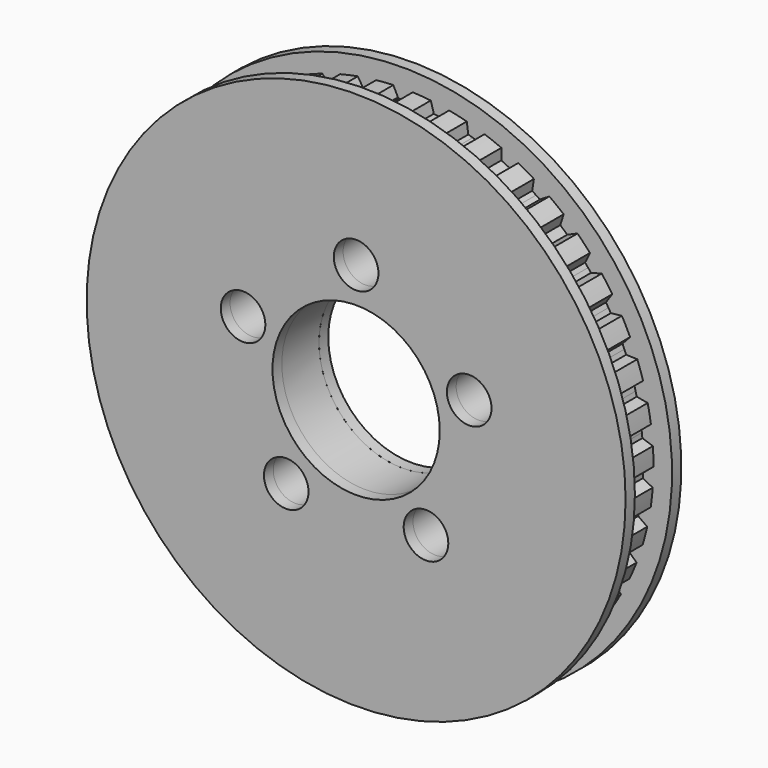
from build123d import *

# Parameters (mm, degrees)
F0_R     = 3.048
F0_R_2   = 11.43
F1_DEPTH = 6.35
F2_R     = 36.83
F2_R_2   = 3.048
F2_R_3   = 11.43
F3_DEPTH = 1.5875
F4_R     = 36.83
F4_R_2   = 3.048
F4_R_3   = 11.43
F5_DEPTH = 1.5875


with BuildPart() as f1:
    # F0 (on Front) → F1 (new body)
    with BuildSketch(Plane.XZ):
        with BuildLine():
            ThreePointArc((34.289848811, -0.1018259205), (34.2899622027, -0.0509130164), (34.29, 0))
            ThreePointArc((34.29, 0), (34.2695521571, 1.1840164488), (34.2082330154, 2.3666207902))
            Line((34.2082330154, 2.3666207902), (32.768740793, 2.8516704742))
            Line((32.768740793, 2.8516704742), (32.7014861277, 3.4830988629))
            Line((32.7014861277, 3.4830988629), (32.6342314625, 4.1145272515))
            Line((32.6342314625, 4.1145272515), (33.9392604864, 4.8919012292))
            ThreePointArc((33.9392604864, 4.8919012292), (33.7410706344, 6.1109943907), (33.4991057167, 7.3221592567))
            Line((33.4991057167, 7.3221592567), (32.0043298327, 7.5924481963))
            Line((32.0043298327, 7.5924481963), (31.8458551649, 8.2073553272))
            Line((31.8458551649, 8.2073553272), (31.6873804972, 8.8222624582))
            Line((31.6873804972, 8.8222624582), (32.8653157482, 9.7813659973))
            ThreePointArc((32.8653157482, 9.7813659973), (32.4917365446, 10.9586110578), (32.0760031392, 12.121638611))
            Line((32.0760031392, 12.121638611), (30.5578021463, 12.1714060667))
            Line((30.5578021463, 12.1714060667), (30.3114850884, 12.7566862619))
            Line((30.3114850884, 12.7566862619), (30.0651680306, 13.3419664572))
            Line((30.0651680306, 13.3419664572), (31.0909038639, 14.462357931))
            ThreePointArc((31.0909038639, 14.462357931), (30.5498975009, 15.572663956), (29.9692562435, 16.6627662834))
            Line((29.9692562435, 16.6627662834), (28.4599879601, 16.4909515481))
            Line((28.4599879601, 16.4909515481), (28.1310783326, 17.0341305765))
            Line((28.1310783326, 17.0341305765), (27.802168705, 17.5773096049))
            Line((27.802168705, 17.5773096049), (28.6538433423, 18.8351098143))
            ThreePointArc((28.6538433423, 18.8351098143), (27.9569404311, 19.8548125584), (27.2237666821, 20.8487560214))
            Line((27.2237666821, 20.8487560214), (25.7555985414, 20.4590210281))
            Line((25.7555985414, 20.4590210281), (25.3511064818, 20.9485219717))
            Line((25.3511064818, 20.9485219717), (24.9466144223, 21.4380229153))
            Line((24.9466144223, 21.4380229153), (25.6060758971, 22.8064240325))
            ThreePointArc((25.6060758971, 22.8064240325), (24.7681297135, 23.7137903021), (23.8980497984, 24.5903907215))
            Line((23.8980497984, 24.5903907215), (22.5022732553, 23.9910419948))
            Line((22.5022732553, 23.9910419948), (22.0308198098, 24.4164319908))
            Line((22.0308198098, 24.4164319908), (21.5593663643, 24.8418219868))
            Line((21.5593663643, 24.8418219868), (22.0125594003, 26.2916589178))
            ThreePointArc((22.0125594003, 26.2916589178), (21.0514293123, 27.0673497762), (20.0629874738, 27.8079239359))
            Line((20.0629874738, 27.8079239359), (18.7693510821, 27.0117355534))
            Line((18.7693510821, 27.0117355534), (18.2409844623, 27.3639481526))
            Line((18.2409844623, 27.3639481526), (17.7126178424, 27.7161607518))
            Line((17.7126178424, 27.7161607518), (17.9498834169, 29.2165327395))
            ThreePointArc((17.9498834169, 29.2165327395), (16.8860542437, 29.8440156829), (15.8003174037, 30.4327795304))
            Line((15.8003174037, 30.4327795304), (14.6363927771, 29.4567208652))
            Line((14.6363927771, 29.4567208652), (14.0623742001, 29.7282492675))
            Line((14.0623742001, 29.7282492675), (13.4883556231, 29.9997776698))
            Line((13.4883556231, 29.9997776698), (13.5046368322, 31.5187068902))
            ThreePointArc((13.5046368322, 31.5187068902), (12.3607822456, 31.9846082089), (11.2008909998, 32.409013265))
            Line((11.2008909998, 32.409013265), (10.1914851709, 31.2738873129))
            Line((10.1914851709, 31.2738873129), (9.5840488462, 31.4589443619))
            Line((9.5840488462, 31.4589443619), (8.9766125214, 31.6440014109))
            Line((8.9766125214, 31.6440014109), (8.7715623595, 33.1491145247))
            ThreePointArc((8.7715623595, 33.1491145247), (7.5720616342, 33.443504341), (6.3627370506, 33.6945051488))
            Line((6.3627370506, 33.6945051488), (5.5293637523, 32.4245051488))
            Line((5.5293637523, 32.4245051488), (4.9014561304, 32.5191466747))
            Line((4.9014561304, 32.5191466747), (4.2735485086, 32.6137882006))
            Line((4.2735485086, 32.6137882006), (3.8515372638, 34.073006335))
            ThreePointArc((3.8515372638, 34.073006335), (2.6219556752, 34.1896102411), (1.3889724079, 34.2618571541))
            Line((1.3889724079, 34.2618571541), (0.7493935451, 32.8840509513))
            Line((0.7493935451, 32.8840509513), (0.114397387, 32.8862598343))
            Line((0.114397387, 32.8862598343), (-0.5205987711, 32.8884687173))
            Line((-0.5205987711, 32.8884687173), (-0.5698242548, 32.9964734106))
            Line((-0.5698242548, 32.9964734106), (-0.635, 32.9964734106))
            Line((-0.635, 32.9964734106), (-1.27, 34.2664734106))
            ThreePointArc((-1.27, 34.2664734106), (-2.4436334133, 34.2028179503), (-3.6143957702, 34.0989771579))
            Line((-3.6143957702, 34.0989771579), (-4.0465486844, 32.6427302994))
            Line((-4.0465486844, 32.6427302994), (-4.6750995382, 32.552459461))
            Line((-4.6750995382, 32.552459461), (-5.3036503919, 32.4621886226))
            Line((-5.3036503919, 32.4621886226), (-6.1281680434, 33.737955724))
            ThreePointArc((-6.1281680434, 33.737955724), (-7.3392095906, 33.4953743461), (-8.5407293776, 33.2093366645))
            Line((-8.5407293776, 33.2093366645), (-8.7562457542, 31.7056865238))
            Line((-8.7562457542, 31.7056865238), (-9.3649548334, 31.5248599302))
            Line((-9.3649548334, 31.5248599302), (-9.9736639125, 31.3440333367))
            Line((-9.9736639125, 31.3440333367), (-10.9751481626, 32.4861543247))
            ThreePointArc((-10.9751481626, 32.4861543247), (-12.1379639539, 32.0698289839), (-13.2850321663, 31.6118968165))
            Line((-13.2850321663, 31.6118968165), (-13.2793186478, 30.0928910858))
            Line((-13.2793186478, 30.0928910858), (-13.8552123752, 29.825362742))
            Line((-13.8552123752, 29.825362742), (-14.4311061026, 29.5578343981))
            Line((-14.4311061026, 29.5578343981), (-15.5882120532, 30.5419669469))
            ThreePointArc((-15.5882120532, 30.5419669469), (-16.6780186888, 29.9607708949), (-17.7461875592, 29.3407042709))
            Line((-17.7461875592, 29.3407042709), (-17.5193659194, 27.8387179201))
            Line((-17.5193659194, 27.8387179201), (-18.0501701201, 27.4901897281))
            Line((-18.0501701201, 27.4901897281), (-18.5809743207, 27.1416615362))
            Line((-18.5809743207, 27.1416615362), (-19.8690402673, 27.946830569))
            ThreePointArc((-19.8690402673, 27.946830569), (-20.8626104109, 27.2131509907), (-21.8291137743, 26.4441655536))
            Line((-21.8291137743, 26.4441655536), (-21.3860183227, 24.9912108141))
            Line((-21.3860183227, 24.9912108141), (-21.8604198266, 24.5691110474))
            Line((-21.8604198266, 24.5691110474), (-22.3348213305, 24.1470112806))
            Line((-22.3348213305, 24.1470112806), (-23.7263943839, 24.7560560175))
            ThreePointArc((-23.7263943839, 24.7560560175), (-24.6025518128, 23.8855300192), (-25.446790328, 22.9840153586))
            Line((-25.446790328, 22.9840153586), (-24.7968648747, 21.6110594381))
            Line((-24.7968648747, 21.6110594381), (-25.2047526375, 21.1243844203))
            Line((-25.2047526375, 21.1243844203), (-25.6126404002, 20.6377094025))
            Line((-25.6126404002, 20.6377094025), (-27.0780615967, 21.0376491122))
            ThreePointArc((-27.0780615967, 21.0376491122), (-27.8181325365, 20.0488304443), (-28.5221127252, 19.0340007799))
            Line((-28.5221127252, 19.0340007799), (-27.679209303, 17.7703058503))
            Line((-27.679209303, 17.7703058503), (-28.0118899051, 17.2294282144))
            Line((-28.0118899051, 17.2294282144), (-28.3445705072, 16.6885505785))
            Line((-28.3445705072, 16.6885505785), (-29.8526069381, 16.8708612405))
            ThreePointArc((-29.8526069381, 16.8708612405), (-30.4408180616, 15.7848248562), (-30.9895358084, 14.6783095204))
            Line((-30.9895358084, 14.6783095204), (-29.9716194403, 13.5508090451))
            Line((-29.9716194403, 13.5508090451), (-30.2220023723, 12.967256659))
            Line((-30.2220023723, 12.967256659), (-30.4723853043, 12.3837042728))
            Line((-30.4723853043, 12.3837042728), (-31.9908957913, 12.3445002519))
            ThreePointArc((-31.9908957913, 12.3445002519), (-32.4147103996, 11.1843931311), (-32.7964707383, 10.0097755773))
            Line((-32.7964707383, 10.0097755773), (-31.6252365445, 9.0425002714))
            Line((-31.6252365445, 9.0425002714), (-31.7879853289, 8.428710541))
            Line((-31.7879853289, 8.428710541), (-31.9507341133, 7.8149208106))
            Line((-31.9507341133, 7.8149208106), (-33.4473542417, 7.5550376723))
            ThreePointArc((-33.4473542417, 7.5550376723), (-33.6977394622, 6.3455854843), (-33.9044058341, 5.1279006463))
            Line((-33.9044058341, 5.1279006463), (-32.6048166378, 4.3414663036))
            Line((-32.6048166378, 4.3414663036), (-32.6764625668, 3.7105210913))
            Line((-32.6764625668, 3.7105210913), (-32.7481084959, 3.0795758791))
            Line((-32.7481084959, 3.0795758791), (-34.1909404061, 2.6045525815))
            ThreePointArc((-34.1909404061, 2.6045525815), (-34.2625597125, 1.3715326997), (-34.2897273826, 0.1367334157))
            Line((-34.2897273826, 0.1367334157), (-32.8894816714, -0.4520984811))
            Line((-32.8894816714, -0.4520984811), (-32.8684977365, -1.0867516734))
            Line((-32.8684977365, -1.0867516734), (-32.8475138015, -1.7214048657))
            Line((-32.8475138015, -1.7214048657), (-34.2058060363, -2.4014440258))
            ThreePointArc((-34.2058060363, -2.4014440258), (-34.0971329875, -3.6317519232), (-33.9442229241, -4.8573480502))
            Line((-33.9442229241, -4.8573480502), (-32.4731645043, -5.2360275715))
            Line((-32.4731645043, -5.2360275715), (-32.3599979415, -5.8608622129))
            Line((-32.3599979415, -5.8608622129), (-32.2468313787, -6.4856968543))
            Line((-32.2468313787, -6.4856968543), (-33.4916342972, -7.3562580229))
            ThreePointArc((-33.4916342972, -7.3562580229), (-33.2049850706, -8.5576320591), (-32.8752562862, -9.7479035755))
            Line((-32.8752562862, -9.7479035755), (-31.364738214, -9.9083598248))
            Line((-31.364738214, -9.9083598248), (-31.1618009722, -10.5100586497))
            Line((-31.1618009722, -10.5100586497), (-30.9588637304, -11.1117574746))
            Line((-30.9588637304, -11.1117574746), (-31.2640306264, -11.399728326))
            Line((-31.2640306264, -11.399728326), (-32.0636465197, -12.1542861519))
            ThreePointArc((-32.0636465197, -12.1542861519), (-31.7581693654, -12.9314646719), (-31.4338577013, -13.7009740534))
            ThreePointArc((-31.4338577013, -13.7009740534), (-31.2718627491, -14.0667942403), (-31.105610637, -14.4306994599))
            Line((-31.105610637, -14.4306994599), (-29.5878269826, -14.3695125909))
            Line((-29.5878269826, -14.3695125909), (-29.2994443168, -14.9352514335))
            Line((-29.2994443168, -14.9352514335), (-29.0110616509, -15.5009902761))
            Line((-29.0110616509, -15.5009902761), (-29.9522777838, -16.6932667732))
            ThreePointArc((-29.9522777838, -16.6932667732), (-29.3316675347, -17.7611198869), (-28.673002901, -18.8059300392))
            Line((-28.673002901, -18.8059300392), (-27.180302588, -18.5244041437))
            Line((-27.180302588, -18.5244041437), (-26.8126208739, -19.0421252627))
            Line((-26.8126208739, -19.0421252627), (-26.4449391599, -19.5598463818))
            Line((-26.4449391599, -19.5598463818), (-27.2025282487, -20.8764593952))
            ThreePointArc((-27.2025282487, -20.8764593952), (-26.4330509542, -21.8425712143), (-25.6292798889, -22.7803448696))
            Line((-25.6292798889, -22.7803448696), (-24.1934772328, -22.2844801833))
            Line((-24.1934772328, -22.2844801833), (-23.7543329679, -22.743149252))
            Line((-23.7543329679, -22.743149252), (-23.3151887031, -23.2018183208))
            Line((-23.3151887031, -23.2018183208), (-23.8730040516, -24.6147065299))
            ThreePointArc((-23.8730040516, -24.6147065299), (-22.9710597844, -25.4584860584), (-22.0393132722, -26.2692361992))
            Line((-22.0393132722, -26.2692361992), (-20.6910099139, -25.569601217))
            Line((-20.6910099139, -25.569601217), (-20.1897626958, -25.9594425005))
            Line((-20.1897626958, -25.9594425005), (-19.6885154777, -26.3492837841))
            Line((-19.6885154777, -26.3492837841), (-20.0346682203, -27.8283339297))
            ThreePointArc((-20.0346682203, -27.8283339297), (-19.0194803565, -28.5317974718), (-17.9796169566, -29.1982443666))
            Line((-17.9796169566, -29.1982443666), (-16.7475496414, -28.3097505934))
            Line((-16.7475496414, -28.3097505934), (-16.1948826843, -28.6224553016))
            Line((-16.1948826843, -28.6224553016), (-15.6422157272, -28.9351600099))
            Line((-15.6422157272, -28.9351600099), (-15.7693282191, -30.448848706))
            ThreePointArc((-15.7693282191, -30.448848706), (-14.6625337254, -30.9970031576), (-13.536716321, -31.5049426479))
            Line((-13.536716321, -31.5049426479), (-12.4471444245, -30.4465267859))
            Line((-12.4471444245, -30.4465267859), (-11.8548368651, -30.6754301609))
            Line((-11.8548368651, -30.6754301609), (-11.2625293057, -30.9043335358))
            Line((-11.2625293057, -30.9043335358), (-11.1678923647, -32.4203991359))
            ThreePointArc((-11.1678923647, -32.4203991359), (-9.9930806444, -32.8015615365), (-8.8053040787, -33.1401677739))
            Line((-8.8053040787, -33.1401677739), (-7.8814499343, -31.9343881198))
            Line((-7.8814499343, -31.9343881198), (-7.2621257799, -32.0746114834))
            Line((-7.2621257799, -32.0746114834), (-6.6428016254, -32.214834847))
            Line((-6.6428016254, -32.214834847), (-6.3284322738, -33.7009650449))
            ThreePointArc((-6.3284322738, -33.7009650449), (-5.1106423989, -33.9070115798), (-3.8862220674, -34.0690677601))
            Line((-3.8862220674, -34.0690677601), (-3.1477760222, -32.7416234137))
            Line((-3.1477760222, -32.7416234137), (-2.5146350918, -32.7901781484))
            Line((-2.5146350918, -32.7901781484), (-1.8814941614, -32.8387328832))
            Line((-1.8814941614, -32.8387328832), (-1.3540926361, -34.2632533939))
            ThreePointArc((-1.3540926361, -34.2632533939), (-0.1192796836, -34.2897925388), (1.1156880203, -34.2718447161))
            Line((1.1156880203, -34.2718447161), (1.6529872708, -32.851027849))
            Line((1.6529872708, -32.851027849), (2.2864506774, -32.806879095))
            Line((2.2864506774, -32.806879095), (2.919914084, -32.7627303409))
            Line((2.919914084, -32.7627303409), (3.6491071353, -34.0952799829))
            ThreePointArc((3.6491071353, -34.0952799829), (4.8746252712, -33.9417461022), (6.0938191548, -33.7441768029))
            Line((6.0938191548, -33.7441768029), (6.41852001, -32.26026966))
            Line((6.41852001, -32.26026966), (7.0388047201, -32.1243583712))
            Line((7.0388047201, -32.1243583712), (7.6590894302, -31.9884470825))
            Line((7.6590894302, -31.9884470825), (8.5745325235, -33.2006248737))
            ThreePointArc((8.5745325235, -33.2006248737), (9.7646360513, -32.8702902753), (10.9420711138, -32.4973103462))
            Line((10.9420711138, -32.4973103462), (11.0472531387, -30.9819398318))
            Line((11.0472531387, -30.9819398318), (11.6411388606, -30.7571627216))
            Line((11.6411388606, -30.7571627216), (12.2350245825, -30.5323856113))
            Line((12.2350245825, -30.5323856113), (13.3172066376, -31.5983560865))
            ThreePointArc((13.3172066376, -31.5983560865), (14.4465305669, -31.098261279), (15.5571118241, -30.5578201397))
            Line((15.5571118241, -30.5578201397), (15.4405332464, -29.0432837454))
            Line((15.4405332464, -29.0432837454), (15.9953623371, -28.7344315475))
            Line((15.9953623371, -28.7344315475), (16.5501914277, -28.4255793496))
            Line((16.5501914277, -28.4255793496), (17.7760476129, -29.3226231989))
            ThreePointArc((17.7760476129, -29.3226231989), (18.8205223648, -28.6634268348), (19.8405797054, -27.9670430499))
            Line((19.8405797054, -27.9670430499), (19.5047251951, -26.4856204896))
            Line((19.5047251951, -26.4856204896), (20.0086724356, -26.0992758523))
            Line((20.0086724356, -26.0992758523), (20.5126196762, -25.7129312151))
            Line((20.5126196762, -25.7129312151), (21.8560229952, -26.4219295063))
            ThreePointArc((21.8560229952, -26.4219295063), (22.7933874038, -25.6176812116), (23.7011800765, -24.7801969924))
            Line((23.7011800765, -24.7801969924), (23.1532077893, -23.3634622159))
            Line((23.1532077893, -23.3634622159), (23.5955324193, -22.9078594046))
            Line((23.5955324193, -22.9078594046), (24.0378570493, -22.4522565932))
            Line((24.0378570493, -22.4522565932), (25.4701751927, -22.9580982586))
            ThreePointArc((25.4701751927, -22.9580982586), (25.7363038386, -22.6593637318), (25.9989289015, -22.3575444979))
            ThreePointArc((25.9989289015, -22.3575444979), (26.5356485422, -21.7178142649), (27.056630943, -21.0652040582))
            Line((27.056630943, -21.0652040582), (26.5149486097, -20.1084787376))
            Line((26.5149486097, -20.1084787376), (26.308219957, -19.7433523077))
            Line((26.308219957, -19.7433523077), (26.6794945949, -19.2282017051))
            Line((26.6794945949, -19.2282017051), (27.0507692327, -18.7130511026))
            Line((27.0507692327, -18.7130511026), (28.5414748261, -19.0049550053))
            ThreePointArc((28.5414748261, -19.0049550053), (29.2073923367, -17.964752514), (29.8354166954, -16.9012428719))
            Line((29.8354166954, -16.9012428719), (28.9025180913, -15.7024471224))
            Line((28.9025180913, -15.7024471224), (29.1948296627, -15.1387282694))
            Line((29.1948296627, -15.1387282694), (29.4871412342, -14.5750094164))
            Line((29.4871412342, -14.5750094164), (31.0044624758, -14.6467541315))
            ThreePointArc((31.0044624758, -14.6467541315), (31.5118288512, -13.5206783281), (31.9783123396, -12.3770610368))
            Line((31.9783123396, -12.3770610368), (30.8808092317, -11.3268715385))
            Line((30.8808092317, -11.3268715385), (31.087927623, -10.7265991237))
            Line((31.087927623, -10.7265991237), (31.2950460143, -10.1263267089))
            Line((31.2950460143, -10.1263267089), (32.8066438362, -9.9763831224))
            ThreePointArc((32.8066438362, -9.9763831224), (33.144645443, -8.7884343576), (33.4396457755, -7.5890836342))
            Line((33.4396457755, -7.5890836342), (32.2009295369, -6.7098833529))
            Line((32.2009295369, -6.7098833529), (32.3184403792, -6.0858511407))
            Line((32.3184403792, -6.0858511407), (32.4359512215, -5.4618189284))
            Line((32.4359512215, -5.4618189284), (33.9096085405, -5.0933828275))
            ThreePointArc((33.9096085405, -5.0933828275), (34.0710414613, -3.8688801668), (34.188271218, -2.6393580897))
            Line((34.188271218, -2.6393580897), (32.8347429348, -1.9498856531))
            Line((32.8347429348, -1.9498856531), (32.8601416885, -1.3153938065))
            Line((32.8601416885, -1.3153938065), (32.8855404422, -0.68090196))
            Line((32.8855404422, -0.68090196), (34.289848811, -0.1018259205))
        make_face()
        with Locations((-9.5515103498, -13.1465261586)):
            Circle(F0_R, mode=Mode.SUBTRACT)
        with Locations((9.5515103498, -13.1465261586)):
            Circle(F0_R, mode=Mode.SUBTRACT)
        with Locations((-15.4546683898, 5.0215261586)):
            Circle(F0_R, mode=Mode.SUBTRACT)
        Circle(F0_R_2, mode=Mode.SUBTRACT)
        with Locations((15.4546683898, 5.0215261586)):
            Circle(F0_R, mode=Mode.SUBTRACT)
        with Locations((0, 16.25)):
            Circle(F0_R, mode=Mode.SUBTRACT)
    extrude(amount=F1_DEPTH)


with BuildPart() as f3:
    # F2 (on face) → F3 (new body)
    with BuildSketch(Plane.XZ.offset(6.35)):
        Circle(F2_R)
        with Locations((-9.5515103498, -13.1465261586)):
            Circle(F2_R_2, mode=Mode.SUBTRACT)
        Circle(F2_R_3, mode=Mode.SUBTRACT)
        with Locations((9.5515103498, -13.1465261586)):
            Circle(F2_R_2, mode=Mode.SUBTRACT)
        with Locations((-15.4546683898, 5.0215261586)):
            Circle(F2_R_2, mode=Mode.SUBTRACT)
        with Locations((0, 16.25)):
            Circle(F2_R_2, mode=Mode.SUBTRACT)
        with Locations((15.4546683898, 5.0215261586)):
            Circle(F2_R_2, mode=Mode.SUBTRACT)
    extrude(amount=F3_DEPTH)


with BuildPart() as f5:
    # F4 (on face) → F5 (new body)
    with BuildSketch(Plane(origin=(0, 0, 0), x_dir=(-1, 0, 0), z_dir=(0, 1, 0))):
        Circle(F4_R)
        with BuildLine():
            ThreePointArc((-34.289848811, -0.1018259205), (-34.2712723832, 1.1331324878), (-34.2082330154, 2.3666207902))
            Line((-34.2082330154, 2.3666207902), (-32.768740793, 2.8516704742))
            Line((-32.768740793, 2.8516704742), (-32.6342314625, 4.1145272515))
            Line((-32.6342314625, 4.1145272515), (-33.9392604864, 4.8919012292))
            ThreePointArc((-33.9392604864, 4.8919012292), (-33.7410706344, 6.1109943907), (-33.4991057167, 7.3221592567))
            Line((-33.4991057167, 7.3221592567), (-32.0043298327, 7.5924481963))
            Line((-32.0043298327, 7.5924481963), (-31.6873804972, 8.8222624582))
            Line((-31.6873804972, 8.8222624582), (-32.8653157482, 9.7813659973))
            ThreePointArc((-32.8653157482, 9.7813659973), (-32.4917365446, 10.9586110578), (-32.0760031392, 12.121638611))
            Line((-32.0760031392, 12.121638611), (-30.5578021463, 12.1714060667))
            Line((-30.5578021463, 12.1714060667), (-30.0651680306, 13.3419664572))
            Line((-30.0651680306, 13.3419664572), (-31.0909038639, 14.462357931))
            ThreePointArc((-31.0909038639, 14.462357931), (-30.5498975009, 15.572663956), (-29.9692562435, 16.6627662834))
            Line((-29.9692562435, 16.6627662834), (-28.4599879601, 16.4909515481))
            Line((-28.4599879601, 16.4909515481), (-27.802168705, 17.5773096049))
            Line((-27.802168705, 17.5773096049), (-28.6538433423, 18.8351098143))
            ThreePointArc((-28.6538433423, 18.8351098143), (-27.9569404311, 19.8548125584), (-27.2237666821, 20.8487560214))
            Line((-27.2237666821, 20.8487560214), (-25.7555985414, 20.4590210281))
            Line((-25.7555985414, 20.4590210281), (-24.9466144223, 21.4380229153))
            Line((-24.9466144223, 21.4380229153), (-25.6060758971, 22.8064240325))
            ThreePointArc((-25.6060758971, 22.8064240325), (-24.7681297135, 23.7137903021), (-23.8980497984, 24.5903907215))
            Line((-23.8980497984, 24.5903907215), (-22.5022732553, 23.9910419948))
            Line((-22.5022732553, 23.9910419948), (-21.5593663643, 24.8418219868))
            Line((-21.5593663643, 24.8418219868), (-22.0125594003, 26.2916589178))
            ThreePointArc((-22.0125594003, 26.2916589178), (-21.0514293123, 27.0673497762), (-20.0629874738, 27.8079239359))
            Line((-20.0629874738, 27.8079239359), (-18.7693510821, 27.0117355534))
            Line((-18.7693510821, 27.0117355534), (-17.7126178424, 27.7161607518))
            Line((-17.7126178424, 27.7161607518), (-17.9498834169, 29.2165327395))
            ThreePointArc((-17.9498834169, 29.2165327395), (-16.8860542437, 29.8440156829), (-15.8003174037, 30.4327795304))
            Line((-15.8003174037, 30.4327795304), (-14.6363927771, 29.4567208652))
            Line((-14.6363927771, 29.4567208652), (-13.4883556231, 29.9997776698))
            Line((-13.4883556231, 29.9997776698), (-13.5046368322, 31.5187068902))
            ThreePointArc((-13.5046368322, 31.5187068902), (-12.3607822456, 31.9846082089), (-11.2008909998, 32.409013265))
            Line((-11.2008909998, 32.409013265), (-10.1914851709, 31.2738873129))
            Line((-10.1914851709, 31.2738873129), (-8.9766125214, 31.6440014109))
            Line((-8.9766125214, 31.6440014109), (-8.7715623595, 33.1491145247))
            ThreePointArc((-8.7715623595, 33.1491145247), (-7.5720616342, 33.443504341), (-6.3627370506, 33.6945051488))
            Line((-6.3627370506, 33.6945051488), (-5.5293637523, 32.4245051488))
            Line((-5.5293637523, 32.4245051488), (-4.2735485086, 32.6137882006))
            Line((-4.2735485086, 32.6137882006), (-3.8515372638, 34.073006335))
            ThreePointArc((-3.8515372638, 34.073006335), (-2.6219556752, 34.1896102411), (-1.3889724079, 34.2618571541))
            Line((-1.3889724079, 34.2618571541), (-0.7493935451, 32.8840509513))
            Line((-0.7493935451, 32.8840509513), (0.5205987711, 32.8884687173))
            Line((0.5205987711, 32.8884687173), (0.5698242548, 32.9964734106))
            Line((0.5698242548, 32.9964734106), (0.635, 32.9964734106))
            Line((0.635, 32.9964734106), (1.27, 34.2664734106))
            ThreePointArc((1.27, 34.2664734106), (2.4436334133, 34.2028179503), (3.6143957702, 34.0989771579))
            Line((3.6143957702, 34.0989771579), (4.0465486844, 32.6427302994))
            Line((4.0465486844, 32.6427302994), (5.3036503919, 32.4621886226))
            Line((5.3036503919, 32.4621886226), (6.1281680434, 33.737955724))
            ThreePointArc((6.1281680434, 33.737955724), (7.3392095906, 33.4953743461), (8.5407293776, 33.2093366645))
            Line((8.5407293776, 33.2093366645), (8.7562457542, 31.7056865238))
            Line((8.7562457542, 31.7056865238), (9.9736639125, 31.3440333367))
            Line((9.9736639125, 31.3440333367), (10.9751481626, 32.4861543247))
            ThreePointArc((10.9751481626, 32.4861543247), (12.1379639539, 32.0698289839), (13.2850321663, 31.6118968165))
            Line((13.2850321663, 31.6118968165), (13.2793186478, 30.0928910858))
            Line((13.2793186478, 30.0928910858), (14.4311061026, 29.5578343981))
            Line((14.4311061026, 29.5578343981), (15.5882120532, 30.5419669469))
            ThreePointArc((15.5882120532, 30.5419669469), (16.6780186888, 29.9607708949), (17.7461875592, 29.3407042709))
            Line((17.7461875592, 29.3407042709), (17.5193659194, 27.8387179201))
            Line((17.5193659194, 27.8387179201), (18.5809743207, 27.1416615362))
            Line((18.5809743207, 27.1416615362), (19.8690402673, 27.946830569))
            ThreePointArc((19.8690402673, 27.946830569), (20.8626104109, 27.2131509907), (21.8291137743, 26.4441655536))
            Line((21.8291137743, 26.4441655536), (21.3860183227, 24.9912108141))
            Line((21.3860183227, 24.9912108141), (22.3348213305, 24.1470112806))
            Line((22.3348213305, 24.1470112806), (23.7263943839, 24.7560560175))
            ThreePointArc((23.7263943839, 24.7560560175), (24.6025518128, 23.8855300192), (25.446790328, 22.9840153586))
            Line((25.446790328, 22.9840153586), (24.7968648747, 21.6110594381))
            Line((24.7968648747, 21.6110594381), (25.6126404002, 20.6377094025))
            Line((25.6126404002, 20.6377094025), (27.0780615967, 21.0376491122))
            ThreePointArc((27.0780615967, 21.0376491122), (27.8181325365, 20.0488304443), (28.5221127252, 19.0340007799))
            Line((28.5221127252, 19.0340007799), (27.679209303, 17.7703058503))
            Line((27.679209303, 17.7703058503), (28.3445705072, 16.6885505785))
            Line((28.3445705072, 16.6885505785), (29.8526069381, 16.8708612405))
            ThreePointArc((29.8526069381, 16.8708612405), (30.4408180616, 15.7848248562), (30.9895358084, 14.6783095204))
            Line((30.9895358084, 14.6783095204), (29.9716194403, 13.5508090451))
            Line((29.9716194403, 13.5508090451), (30.4723853043, 12.3837042728))
            Line((30.4723853043, 12.3837042728), (31.9908957913, 12.3445002519))
            ThreePointArc((31.9908957913, 12.3445002519), (32.4147103996, 11.1843931311), (32.7964707383, 10.0097755773))
            Line((32.7964707383, 10.0097755773), (31.6252365445, 9.0425002714))
            Line((31.6252365445, 9.0425002714), (31.9507341133, 7.8149208106))
            Line((31.9507341133, 7.8149208106), (33.4473542417, 7.5550376723))
            ThreePointArc((33.4473542417, 7.5550376723), (33.6977394622, 6.3455854843), (33.9044058341, 5.1279006463))
            Line((33.9044058341, 5.1279006463), (32.6048166378, 4.3414663036))
            Line((32.6048166378, 4.3414663036), (32.7481084959, 3.0795758791))
            Line((32.7481084959, 3.0795758791), (34.1909404061, 2.6045525815))
            ThreePointArc((34.1909404061, 2.6045525815), (34.2625597125, 1.3715326997), (34.2897273826, 0.1367334157))
            Line((34.2897273826, 0.1367334157), (32.8894816714, -0.4520984811))
            Line((32.8894816714, -0.4520984811), (32.8475138015, -1.7214048657))
            Line((32.8475138015, -1.7214048657), (34.2058060363, -2.4014440258))
            ThreePointArc((34.2058060363, -2.4014440258), (34.0971329875, -3.6317519232), (33.9442229241, -4.8573480502))
            Line((33.9442229241, -4.8573480502), (32.4731645043, -5.2360275715))
            Line((32.4731645043, -5.2360275715), (32.2468313787, -6.4856968543))
            Line((32.2468313787, -6.4856968543), (33.4916342972, -7.3562580229))
            ThreePointArc((33.4916342972, -7.3562580229), (33.2049850706, -8.5576320591), (32.8752562862, -9.7479035755))
            Line((32.8752562862, -9.7479035755), (31.364738214, -9.9083598248))
            Line((31.364738214, -9.9083598248), (30.9588637304, -11.1117574746))
            Line((30.9588637304, -11.1117574746), (32.0636465197, -12.1542861519))
            ThreePointArc((32.0636465197, -12.1542861519), (31.6051305458, -13.301121125), (31.105610637, -14.4306994599))
            Line((31.105610637, -14.4306994599), (29.5878269826, -14.3695125909))
            Line((29.5878269826, -14.3695125909), (29.0110616509, -15.5009902761))
            Line((29.0110616509, -15.5009902761), (29.9522777838, -16.6932667732))
            ThreePointArc((29.9522777838, -16.6932667732), (29.3316675347, -17.7611198869), (28.673002901, -18.8059300392))
            Line((28.673002901, -18.8059300392), (27.180302588, -18.5244041437))
            Line((27.180302588, -18.5244041437), (26.4449391599, -19.5598463818))
            Line((26.4449391599, -19.5598463818), (27.2025282487, -20.8764593952))
            ThreePointArc((27.2025282487, -20.8764593952), (26.4330509542, -21.8425712143), (25.6292798889, -22.7803448696))
            Line((25.6292798889, -22.7803448696), (24.1934772328, -22.2844801833))
            Line((24.1934772328, -22.2844801833), (23.3151887031, -23.2018183208))
            Line((23.3151887031, -23.2018183208), (23.8730040516, -24.6147065299))
            ThreePointArc((23.8730040516, -24.6147065299), (22.9710597844, -25.4584860584), (22.0393132722, -26.2692361992))
            Line((22.0393132722, -26.2692361992), (20.6910099139, -25.569601217))
            Line((20.6910099139, -25.569601217), (19.6885154777, -26.3492837841))
            Line((19.6885154777, -26.3492837841), (20.0346682203, -27.8283339297))
            ThreePointArc((20.0346682203, -27.8283339297), (19.0194803565, -28.5317974718), (17.9796169566, -29.1982443666))
            Line((17.9796169566, -29.1982443666), (16.7475496414, -28.3097505934))
            Line((16.7475496414, -28.3097505934), (15.6422157272, -28.9351600099))
            Line((15.6422157272, -28.9351600099), (15.7693282191, -30.448848706))
            ThreePointArc((15.7693282191, -30.448848706), (14.6625337254, -30.9970031576), (13.536716321, -31.5049426479))
            Line((13.536716321, -31.5049426479), (12.4471444245, -30.4465267859))
            Line((12.4471444245, -30.4465267859), (11.2625293057, -30.9043335358))
            Line((11.2625293057, -30.9043335358), (11.1678923647, -32.4203991359))
            ThreePointArc((11.1678923647, -32.4203991359), (9.9930806444, -32.8015615365), (8.8053040787, -33.1401677739))
            Line((8.8053040787, -33.1401677739), (7.8814499343, -31.9343881198))
            Line((7.8814499343, -31.9343881198), (6.6428016254, -32.214834847))
            Line((6.6428016254, -32.214834847), (6.3284322738, -33.7009650449))
            ThreePointArc((6.3284322738, -33.7009650449), (5.1106423989, -33.9070115798), (3.8862220674, -34.0690677601))
            Line((3.8862220674, -34.0690677601), (3.1477760222, -32.7416234137))
            Line((3.1477760222, -32.7416234137), (1.8814941614, -32.8387328832))
            Line((1.8814941614, -32.8387328832), (1.3540926361, -34.2632533939))
            ThreePointArc((1.3540926361, -34.2632533939), (0.1192796836, -34.2897925388), (-1.1156880203, -34.2718447161))
            Line((-1.1156880203, -34.2718447161), (-1.6529872708, -32.851027849))
            Line((-1.6529872708, -32.851027849), (-2.919914084, -32.7627303409))
            Line((-2.919914084, -32.7627303409), (-3.6491071353, -34.0952799829))
            ThreePointArc((-3.6491071353, -34.0952799829), (-4.8746252712, -33.9417461022), (-6.0938191548, -33.7441768029))
            Line((-6.0938191548, -33.7441768029), (-6.41852001, -32.26026966))
            Line((-6.41852001, -32.26026966), (-7.6590894302, -31.9884470825))
            Line((-7.6590894302, -31.9884470825), (-8.5745325235, -33.2006248737))
            ThreePointArc((-8.5745325235, -33.2006248737), (-9.7646360513, -32.8702902753), (-10.9420711138, -32.4973103462))
            Line((-10.9420711138, -32.4973103462), (-11.0472531387, -30.9819398318))
            Line((-11.0472531387, -30.9819398318), (-12.2350245825, -30.5323856113))
            Line((-12.2350245825, -30.5323856113), (-13.3172066376, -31.5983560865))
            ThreePointArc((-13.3172066376, -31.5983560865), (-14.4465305669, -31.098261279), (-15.5571118241, -30.5578201397))
            Line((-15.5571118241, -30.5578201397), (-15.4405332464, -29.0432837454))
            Line((-15.4405332464, -29.0432837454), (-16.5501914277, -28.4255793496))
            Line((-16.5501914277, -28.4255793496), (-17.7760476129, -29.3226231989))
            ThreePointArc((-17.7760476129, -29.3226231989), (-18.8205223648, -28.6634268348), (-19.8405797054, -27.9670430499))
            Line((-19.8405797054, -27.9670430499), (-19.5047251951, -26.4856204896))
            Line((-19.5047251951, -26.4856204896), (-20.5126196762, -25.7129312151))
            Line((-20.5126196762, -25.7129312151), (-21.8560229952, -26.4219295063))
            ThreePointArc((-21.8560229952, -26.4219295063), (-22.7933874038, -25.6176812116), (-23.7011800765, -24.7801969924))
            Line((-23.7011800765, -24.7801969924), (-23.1532077893, -23.3634622159))
            Line((-23.1532077893, -23.3634622159), (-24.0378570493, -22.4522565932))
            Line((-24.0378570493, -22.4522565932), (-25.4701751927, -22.9580982586))
            ThreePointArc((-25.4701751927, -22.9580982586), (-26.280450963, -22.0259391896), (-27.056630943, -21.0652040582))
            Line((-27.056630943, -21.0652040582), (-26.308219957, -19.7433523077))
            Line((-26.308219957, -19.7433523077), (-27.0507692327, -18.7130511026))
            Line((-27.0507692327, -18.7130511026), (-28.5414748261, -19.0049550053))
            ThreePointArc((-28.5414748261, -19.0049550053), (-29.2073923367, -17.964752514), (-29.8354166954, -16.9012428719))
            Line((-29.8354166954, -16.9012428719), (-28.9025180913, -15.7024471224))
            Line((-28.9025180913, -15.7024471224), (-29.4871412342, -14.5750094164))
            Line((-29.4871412342, -14.5750094164), (-31.0044624758, -14.6467541315))
            ThreePointArc((-31.0044624758, -14.6467541315), (-31.5118288512, -13.5206783281), (-31.9783123396, -12.3770610368))
            Line((-31.9783123396, -12.3770610368), (-30.8808092317, -11.3268715385))
            Line((-30.8808092317, -11.3268715385), (-31.2950460143, -10.1263267089))
            Line((-31.2950460143, -10.1263267089), (-32.8066438362, -9.9763831224))
            ThreePointArc((-32.8066438362, -9.9763831224), (-33.144645443, -8.7884343576), (-33.4396457755, -7.5890836342))
            Line((-33.4396457755, -7.5890836342), (-32.2009295369, -6.7098833529))
            Line((-32.2009295369, -6.7098833529), (-32.4359512215, -5.4618189284))
            Line((-32.4359512215, -5.4618189284), (-33.9096085405, -5.0933828275))
            ThreePointArc((-33.9096085405, -5.0933828275), (-34.0710414613, -3.8688801668), (-34.188271218, -2.6393580897))
            Line((-34.188271218, -2.6393580897), (-32.8347429348, -1.9498856531))
            Line((-32.8347429348, -1.9498856531), (-32.8855404422, -0.68090196))
            Line((-32.8855404422, -0.68090196), (-34.289848811, -0.1018259205))
        make_face(mode=Mode.SUBTRACT)
        with BuildLine():
            Line((-32.768740793, 2.8516704742), (-34.2082330154, 2.3666207902))
            ThreePointArc((-34.2082330154, 2.3666207902), (-34.2712723832, 1.1331324878), (-34.289848811, -0.1018259205))
            Line((-34.289848811, -0.1018259205), (-32.8855404422, -0.68090196))
            Line((-32.8855404422, -0.68090196), (-32.8347429348, -1.9498856531))
            Line((-32.8347429348, -1.9498856531), (-34.188271218, -2.6393580897))
            ThreePointArc((-34.188271218, -2.6393580897), (-34.0710414613, -3.8688801668), (-33.9096085405, -5.0933828275))
            Line((-33.9096085405, -5.0933828275), (-32.4359512215, -5.4618189284))
            Line((-32.4359512215, -5.4618189284), (-32.2009295369, -6.7098833529))
            Line((-32.2009295369, -6.7098833529), (-33.4396457755, -7.5890836342))
            ThreePointArc((-33.4396457755, -7.5890836342), (-33.144645443, -8.7884343576), (-32.8066438362, -9.9763831224))
            Line((-32.8066438362, -9.9763831224), (-31.2950460143, -10.1263267089))
            Line((-31.2950460143, -10.1263267089), (-30.8808092317, -11.3268715385))
            Line((-30.8808092317, -11.3268715385), (-31.9783123396, -12.3770610368))
            ThreePointArc((-31.9783123396, -12.3770610368), (-31.5118288512, -13.5206783281), (-31.0044624758, -14.6467541315))
            Line((-31.0044624758, -14.6467541315), (-29.4871412342, -14.5750094164))
            Line((-29.4871412342, -14.5750094164), (-28.9025180913, -15.7024471224))
            Line((-28.9025180913, -15.7024471224), (-29.8354166954, -16.9012428719))
            ThreePointArc((-29.8354166954, -16.9012428719), (-29.2073923367, -17.964752514), (-28.5414748261, -19.0049550053))
            Line((-28.5414748261, -19.0049550053), (-27.0507692327, -18.7130511026))
            Line((-27.0507692327, -18.7130511026), (-26.308219957, -19.7433523077))
            Line((-26.308219957, -19.7433523077), (-27.056630943, -21.0652040582))
            ThreePointArc((-27.056630943, -21.0652040582), (-26.280450963, -22.0259391896), (-25.4701751927, -22.9580982586))
            Line((-25.4701751927, -22.9580982586), (-24.0378570493, -22.4522565932))
            Line((-24.0378570493, -22.4522565932), (-23.1532077893, -23.3634622159))
            Line((-23.1532077893, -23.3634622159), (-23.7011800765, -24.7801969924))
            ThreePointArc((-23.7011800765, -24.7801969924), (-22.7933874038, -25.6176812116), (-21.8560229952, -26.4219295063))
            Line((-21.8560229952, -26.4219295063), (-20.5126196762, -25.7129312151))
            Line((-20.5126196762, -25.7129312151), (-19.5047251951, -26.4856204896))
            Line((-19.5047251951, -26.4856204896), (-19.8405797054, -27.9670430499))
            ThreePointArc((-19.8405797054, -27.9670430499), (-18.8205223648, -28.6634268348), (-17.7760476129, -29.3226231989))
            Line((-17.7760476129, -29.3226231989), (-16.5501914277, -28.4255793496))
            Line((-16.5501914277, -28.4255793496), (-15.4405332464, -29.0432837454))
            Line((-15.4405332464, -29.0432837454), (-15.5571118241, -30.5578201397))
            ThreePointArc((-15.5571118241, -30.5578201397), (-14.4465305669, -31.098261279), (-13.3172066376, -31.5983560865))
            Line((-13.3172066376, -31.5983560865), (-12.2350245825, -30.5323856113))
            Line((-12.2350245825, -30.5323856113), (-11.0472531387, -30.9819398318))
            Line((-11.0472531387, -30.9819398318), (-10.9420711138, -32.4973103462))
            ThreePointArc((-10.9420711138, -32.4973103462), (-9.7646360513, -32.8702902753), (-8.5745325235, -33.2006248737))
            Line((-8.5745325235, -33.2006248737), (-7.6590894302, -31.9884470825))
            Line((-7.6590894302, -31.9884470825), (-6.41852001, -32.26026966))
            Line((-6.41852001, -32.26026966), (-6.0938191548, -33.7441768029))
            ThreePointArc((-6.0938191548, -33.7441768029), (-4.8746252712, -33.9417461022), (-3.6491071353, -34.0952799829))
            Line((-3.6491071353, -34.0952799829), (-2.919914084, -32.7627303409))
            Line((-2.919914084, -32.7627303409), (-1.6529872708, -32.851027849))
            Line((-1.6529872708, -32.851027849), (-1.1156880203, -34.2718447161))
            ThreePointArc((-1.1156880203, -34.2718447161), (0.1192796836, -34.2897925388), (1.3540926361, -34.2632533939))
            Line((1.3540926361, -34.2632533939), (1.8814941614, -32.8387328832))
            Line((1.8814941614, -32.8387328832), (3.1477760222, -32.7416234137))
            Line((3.1477760222, -32.7416234137), (3.8862220674, -34.0690677601))
            ThreePointArc((3.8862220674, -34.0690677601), (5.1106423989, -33.9070115798), (6.3284322738, -33.7009650449))
            Line((6.3284322738, -33.7009650449), (6.6428016254, -32.214834847))
            Line((6.6428016254, -32.214834847), (7.8814499343, -31.9343881198))
            Line((7.8814499343, -31.9343881198), (8.8053040787, -33.1401677739))
            ThreePointArc((8.8053040787, -33.1401677739), (9.9930806444, -32.8015615365), (11.1678923647, -32.4203991359))
            Line((11.1678923647, -32.4203991359), (11.2625293057, -30.9043335358))
            Line((11.2625293057, -30.9043335358), (12.4471444245, -30.4465267859))
            Line((12.4471444245, -30.4465267859), (13.536716321, -31.5049426479))
            ThreePointArc((13.536716321, -31.5049426479), (14.6625337254, -30.9970031576), (15.7693282191, -30.448848706))
            Line((15.7693282191, -30.448848706), (15.6422157272, -28.9351600099))
            Line((15.6422157272, -28.9351600099), (16.7475496414, -28.3097505934))
            Line((16.7475496414, -28.3097505934), (17.9796169566, -29.1982443666))
            ThreePointArc((17.9796169566, -29.1982443666), (19.0194803565, -28.5317974718), (20.0346682203, -27.8283339297))
            Line((20.0346682203, -27.8283339297), (19.6885154777, -26.3492837841))
            Line((19.6885154777, -26.3492837841), (20.6910099139, -25.569601217))
            Line((20.6910099139, -25.569601217), (22.0393132722, -26.2692361992))
            ThreePointArc((22.0393132722, -26.2692361992), (22.9710597844, -25.4584860584), (23.8730040516, -24.6147065299))
            Line((23.8730040516, -24.6147065299), (23.3151887031, -23.2018183208))
            Line((23.3151887031, -23.2018183208), (24.1934772328, -22.2844801833))
            Line((24.1934772328, -22.2844801833), (25.6292798889, -22.7803448696))
            ThreePointArc((25.6292798889, -22.7803448696), (26.4330509542, -21.8425712143), (27.2025282487, -20.8764593952))
            Line((27.2025282487, -20.8764593952), (26.4449391599, -19.5598463818))
            Line((26.4449391599, -19.5598463818), (27.180302588, -18.5244041437))
            Line((27.180302588, -18.5244041437), (28.673002901, -18.8059300392))
            ThreePointArc((28.673002901, -18.8059300392), (29.3316675347, -17.7611198869), (29.9522777838, -16.6932667732))
            Line((29.9522777838, -16.6932667732), (29.0110616509, -15.5009902761))
            Line((29.0110616509, -15.5009902761), (29.5878269826, -14.3695125909))
            Line((29.5878269826, -14.3695125909), (31.105610637, -14.4306994599))
            ThreePointArc((31.105610637, -14.4306994599), (31.6051305458, -13.301121125), (32.0636465197, -12.1542861519))
            Line((32.0636465197, -12.1542861519), (30.9588637304, -11.1117574746))
            Line((30.9588637304, -11.1117574746), (31.364738214, -9.9083598248))
            Line((31.364738214, -9.9083598248), (32.8752562862, -9.7479035755))
            ThreePointArc((32.8752562862, -9.7479035755), (33.2049850706, -8.5576320591), (33.4916342972, -7.3562580229))
            Line((33.4916342972, -7.3562580229), (32.2468313787, -6.4856968543))
            Line((32.2468313787, -6.4856968543), (32.4731645043, -5.2360275715))
            Line((32.4731645043, -5.2360275715), (33.9442229241, -4.8573480502))
            ThreePointArc((33.9442229241, -4.8573480502), (34.0971329875, -3.6317519232), (34.2058060363, -2.4014440258))
            Line((34.2058060363, -2.4014440258), (32.8475138015, -1.7214048657))
            Line((32.8475138015, -1.7214048657), (32.8894816714, -0.4520984811))
            Line((32.8894816714, -0.4520984811), (34.2897273826, 0.1367334157))
            ThreePointArc((34.2897273826, 0.1367334157), (34.2625597125, 1.3715326997), (34.1909404061, 2.6045525815))
            Line((34.1909404061, 2.6045525815), (32.7481084959, 3.0795758791))
            Line((32.7481084959, 3.0795758791), (32.6048166378, 4.3414663036))
            Line((32.6048166378, 4.3414663036), (33.9044058341, 5.1279006463))
            ThreePointArc((33.9044058341, 5.1279006463), (33.6977394622, 6.3455854843), (33.4473542417, 7.5550376723))
            Line((33.4473542417, 7.5550376723), (31.9507341133, 7.8149208106))
            Line((31.9507341133, 7.8149208106), (31.6252365445, 9.0425002714))
            Line((31.6252365445, 9.0425002714), (32.7964707383, 10.0097755773))
            ThreePointArc((32.7964707383, 10.0097755773), (32.4147103996, 11.1843931311), (31.9908957913, 12.3445002519))
            Line((31.9908957913, 12.3445002519), (30.4723853043, 12.3837042728))
            Line((30.4723853043, 12.3837042728), (29.9716194403, 13.5508090451))
            Line((29.9716194403, 13.5508090451), (30.9895358084, 14.6783095204))
            ThreePointArc((30.9895358084, 14.6783095204), (30.4408180616, 15.7848248562), (29.8526069381, 16.8708612405))
            Line((29.8526069381, 16.8708612405), (28.3445705072, 16.6885505785))
            Line((28.3445705072, 16.6885505785), (27.679209303, 17.7703058503))
            Line((27.679209303, 17.7703058503), (28.5221127252, 19.0340007799))
            ThreePointArc((28.5221127252, 19.0340007799), (27.8181325365, 20.0488304443), (27.0780615967, 21.0376491122))
            Line((27.0780615967, 21.0376491122), (25.6126404002, 20.6377094025))
            Line((25.6126404002, 20.6377094025), (24.7968648747, 21.6110594381))
            Line((24.7968648747, 21.6110594381), (25.446790328, 22.9840153586))
            ThreePointArc((25.446790328, 22.9840153586), (24.6025518128, 23.8855300192), (23.7263943839, 24.7560560175))
            Line((23.7263943839, 24.7560560175), (22.3348213305, 24.1470112806))
            Line((22.3348213305, 24.1470112806), (21.3860183227, 24.9912108141))
            Line((21.3860183227, 24.9912108141), (21.8291137743, 26.4441655536))
            ThreePointArc((21.8291137743, 26.4441655536), (20.8626104109, 27.2131509907), (19.8690402673, 27.946830569))
            Line((19.8690402673, 27.946830569), (18.5809743207, 27.1416615362))
            Line((18.5809743207, 27.1416615362), (17.5193659194, 27.8387179201))
            Line((17.5193659194, 27.8387179201), (17.7461875592, 29.3407042709))
            ThreePointArc((17.7461875592, 29.3407042709), (16.6780186888, 29.9607708949), (15.5882120532, 30.5419669469))
            Line((15.5882120532, 30.5419669469), (14.4311061026, 29.5578343981))
            Line((14.4311061026, 29.5578343981), (13.2793186478, 30.0928910858))
            Line((13.2793186478, 30.0928910858), (13.2850321663, 31.6118968165))
            ThreePointArc((13.2850321663, 31.6118968165), (12.1379639539, 32.0698289839), (10.9751481626, 32.4861543247))
            Line((10.9751481626, 32.4861543247), (9.9736639125, 31.3440333367))
            Line((9.9736639125, 31.3440333367), (8.7562457542, 31.7056865238))
            Line((8.7562457542, 31.7056865238), (8.5407293776, 33.2093366645))
            ThreePointArc((8.5407293776, 33.2093366645), (7.3392095906, 33.4953743461), (6.1281680434, 33.737955724))
            Line((6.1281680434, 33.737955724), (5.3036503919, 32.4621886226))
            Line((5.3036503919, 32.4621886226), (4.0465486844, 32.6427302994))
            Line((4.0465486844, 32.6427302994), (3.6143957702, 34.0989771579))
            ThreePointArc((3.6143957702, 34.0989771579), (2.4436334133, 34.2028179503), (1.27, 34.2664734106))
            Line((1.27, 34.2664734106), (0.635, 32.9964734106))
            Line((0.635, 32.9964734106), (0.5698242548, 32.9964734106))
            Line((0.5698242548, 32.9964734106), (0.5205987711, 32.8884687173))
            Line((0.5205987711, 32.8884687173), (-0.7493935451, 32.8840509513))
            Line((-0.7493935451, 32.8840509513), (-1.3889724079, 34.2618571541))
            ThreePointArc((-1.3889724079, 34.2618571541), (-2.6219556752, 34.1896102411), (-3.8515372638, 34.073006335))
            Line((-3.8515372638, 34.073006335), (-4.2735485086, 32.6137882006))
            Line((-4.2735485086, 32.6137882006), (-5.5293637523, 32.4245051488))
            Line((-5.5293637523, 32.4245051488), (-6.3627370506, 33.6945051488))
            ThreePointArc((-6.3627370506, 33.6945051488), (-7.5720616342, 33.443504341), (-8.7715623595, 33.1491145247))
            Line((-8.7715623595, 33.1491145247), (-8.9766125214, 31.6440014109))
            Line((-8.9766125214, 31.6440014109), (-10.1914851709, 31.2738873129))
            Line((-10.1914851709, 31.2738873129), (-11.2008909998, 32.409013265))
            ThreePointArc((-11.2008909998, 32.409013265), (-12.3607822456, 31.9846082089), (-13.5046368322, 31.5187068902))
            Line((-13.5046368322, 31.5187068902), (-13.4883556231, 29.9997776698))
            Line((-13.4883556231, 29.9997776698), (-14.6363927771, 29.4567208652))
            Line((-14.6363927771, 29.4567208652), (-15.8003174037, 30.4327795304))
            ThreePointArc((-15.8003174037, 30.4327795304), (-16.8860542437, 29.8440156829), (-17.9498834169, 29.2165327395))
            Line((-17.9498834169, 29.2165327395), (-17.7126178424, 27.7161607518))
            Line((-17.7126178424, 27.7161607518), (-18.7693510821, 27.0117355534))
            Line((-18.7693510821, 27.0117355534), (-20.0629874738, 27.8079239359))
            ThreePointArc((-20.0629874738, 27.8079239359), (-21.0514293123, 27.0673497762), (-22.0125594003, 26.2916589178))
            Line((-22.0125594003, 26.2916589178), (-21.5593663643, 24.8418219868))
            Line((-21.5593663643, 24.8418219868), (-22.5022732553, 23.9910419948))
            Line((-22.5022732553, 23.9910419948), (-23.8980497984, 24.5903907215))
            ThreePointArc((-23.8980497984, 24.5903907215), (-24.7681297135, 23.7137903021), (-25.6060758971, 22.8064240325))
            Line((-25.6060758971, 22.8064240325), (-24.9466144223, 21.4380229153))
            Line((-24.9466144223, 21.4380229153), (-25.7555985414, 20.4590210281))
            Line((-25.7555985414, 20.4590210281), (-27.2237666821, 20.8487560214))
            ThreePointArc((-27.2237666821, 20.8487560214), (-27.9569404311, 19.8548125584), (-28.6538433423, 18.8351098143))
            Line((-28.6538433423, 18.8351098143), (-27.802168705, 17.5773096049))
            Line((-27.802168705, 17.5773096049), (-28.4599879601, 16.4909515481))
            Line((-28.4599879601, 16.4909515481), (-29.9692562435, 16.6627662834))
            ThreePointArc((-29.9692562435, 16.6627662834), (-30.5498975009, 15.572663956), (-31.0909038639, 14.462357931))
            Line((-31.0909038639, 14.462357931), (-30.0651680306, 13.3419664572))
            Line((-30.0651680306, 13.3419664572), (-30.5578021463, 12.1714060667))
            Line((-30.5578021463, 12.1714060667), (-32.0760031392, 12.121638611))
            ThreePointArc((-32.0760031392, 12.121638611), (-32.4917365446, 10.9586110578), (-32.8653157482, 9.7813659973))
            Line((-32.8653157482, 9.7813659973), (-31.6873804972, 8.8222624582))
            Line((-31.6873804972, 8.8222624582), (-32.0043298327, 7.5924481963))
            Line((-32.0043298327, 7.5924481963), (-33.4991057167, 7.3221592567))
            ThreePointArc((-33.4991057167, 7.3221592567), (-33.7410706344, 6.1109943907), (-33.9392604864, 4.8919012292))
            Line((-33.9392604864, 4.8919012292), (-32.6342314625, 4.1145272515))
            Line((-32.6342314625, 4.1145272515), (-32.768740793, 2.8516704742))
        make_face()
        with Locations((-9.5515103498, -13.1465261586)):
            Circle(F4_R_2, mode=Mode.SUBTRACT)
        Circle(F4_R_3, mode=Mode.SUBTRACT)
        with Locations((9.5515103498, -13.1465261586)):
            Circle(F4_R_2, mode=Mode.SUBTRACT)
        with Locations((-15.4546683898, 5.0215261586)):
            Circle(F4_R_2, mode=Mode.SUBTRACT)
        with Locations((0, 16.25)):
            Circle(F4_R_2, mode=Mode.SUBTRACT)
        with Locations((15.4546683898, 5.0215261586)):
            Circle(F4_R_2, mode=Mode.SUBTRACT)
    extrude(amount=F5_DEPTH)


solid = Compound([f1.part, f3.part, f5.part])
